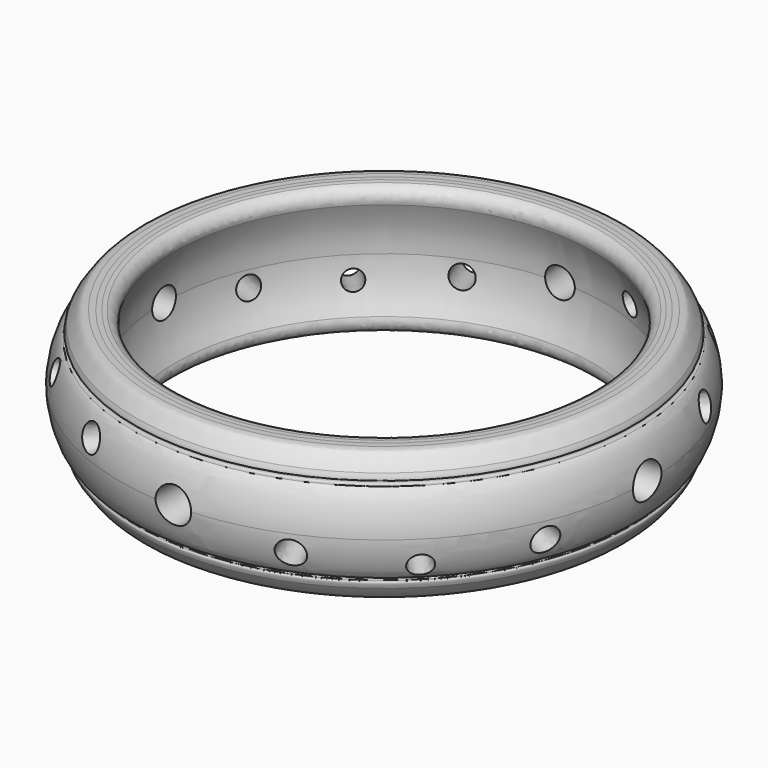
from build123d import *

# Parameters (mm, degrees)
F6_R  = 0.925
F10_R = 0.925
F13_R = 0.925
F16_R = 0.925
F19_R = 0.60125
F22_R = 0.60125
F25_R = 0.60125
F28_R = 0.60125
F31_R = 0.69375
F34_R = 0.69375
F37_R = 0.69375
F40_R = 0.69375
F43_R = 0.69375
F46_R = 0.69375
F49_R = 0.69375
F52_R = 0.69375
F54_R = 0.5


with BuildPart() as f7:
    # F4 (on Front) → F7 (revolve)
    with BuildSketch(Plane.XZ):
        with BuildLine():
            ThreePointArc((-9.390020965, -2.6499475874), (-9.9562513888, -1.378385863), (-10.15, 0))
            ThreePointArc((-10.15, 0), (-9.9562513888, 1.378385863), (-9.390020965, 2.6499475874))
            ThreePointArc((-9.390020965, 2.6499475874), (-9.7316386654, 2.90828068), (-10.15, 3))
            Line((-10.15, 3), (-10.3662162162, 3))
            add(Edge.make_bspline(
                [(-10.3662162162, 3), (-10.472837042, 3), (-10.557874601, 3.0016363559), (-10.6280844767, 3.0013946727)],
                knots=[0, 0, 0, 0, 0.0239499668, 0.0239499668, 0.0239499668, 0.0239499668], degree=3))
            add(Edge.make_bspline(
                [(-10.6280844767, 3.0013946727), (-10.8292088392, 3.0007023429), (-10.9921524035, 2.967674786), (-11.3112702381, 2.5223186656), (-11.4201303001, 2.33784677)],
                knots=[0.0239499668, 0.0239499668, 0.0239499668, 0.0239499668, 0.0925574349, 0.1646602009, 0.1646602009, 0.1646602009, 0.1646602009], degree=3))
            add(Edge.make_bspline(
                [(-11.4487175433, 2.0358536935), (-11.4651041435, 2.0416528659), (-11.5183586384, 2.0703938377), (-11.4757818107, 2.2151974428), (-11.4201303001, 2.33784677)],
                knots=[0.7804409146, 0.7804409146, 0.7804409146, 0.7804409146, 0.7968478814, 0.8404747458, 0.8404747458, 0.8404747458, 0.8404747458], degree=3))
            add(Edge.make_bspline(
                [(-11.4487175433, 2.0358536935), (-11.4296368102, 2.0346757603), (-11.4109907542, 2.030813526), (-11.3989781781, 2.0179532851), (-11.3986495684, 2.0175892595)],
                knots=[0.2528731478, 0.2528731478, 0.2528731478, 0.2528731478, 0.2700664215, 0.2705576855, 0.2705576855, 0.2705576855, 0.2705576855], degree=3))
            add(Edge.make_bspline(
                [(-11.5392835748, 1.8536456852), (-11.4756698731, 1.8704441288), (-11.3673874888, 1.8228684436), (-11.3552610391, 1.9857274952), (-11.3935496245, 2.0146372205), (-11.3986495684, 2.0175892595)],
                knots=[0.6749440288, 0.6749440288, 0.6749440288, 0.6749440288, 0.7167284795, 0.7580313054, 0.763759412, 0.763759412, 0.763759412, 0.763759412], degree=3))
            add(Edge.make_bspline(
                [(-11.5392835748, 1.8536456852), (-11.5414366172, 1.85273786), (-11.7649768554, 1.752090256), (-12.139323112, 0.8703692903), (-12.1499999991, 7e-08)],
                knots=[0.3529869285, 0.3529869285, 0.3529869285, 0.3529869285, 0.3545300043, 0.5121145373, 0.5121145373, 0.5121145373, 0.5121145373], degree=3))
            add(Edge.make_bspline(
                [(-11.5392835748, -1.8536456852), (-11.5414366172, -1.85273786), (-11.7649768613, -1.7520902534), (-12.1393231319, -0.8703692435), (-12.15, 0)],
                knots=[0.3529869285, 0.3529869285, 0.3529869285, 0.3529869285, 0.3545300043, 0.5121145416, 0.5121145416, 0.5121145416, 0.5121145416], degree=3))
            add(Edge.make_bspline(
                [(-11.5392835748, -1.8536456852), (-11.4756698731, -1.8704441288), (-11.3673874888, -1.8228684436), (-11.3552610391, -1.9857274952), (-11.3935496245, -2.0146372205), (-11.3986495684, -2.0175892595)],
                knots=[0.6749440288, 0.6749440288, 0.6749440288, 0.6749440288, 0.7167284795, 0.7580313054, 0.763759412, 0.763759412, 0.763759412, 0.763759412], degree=3))
            add(Edge.make_bspline(
                [(-11.4487175433, -2.0358536935), (-11.4296368102, -2.0346757603), (-11.4109907542, -2.030813526), (-11.3989781781, -2.0179532851), (-11.3986495684, -2.0175892595)],
                knots=[0.2528731478, 0.2528731478, 0.2528731478, 0.2528731478, 0.2700664215, 0.2705576855, 0.2705576855, 0.2705576855, 0.2705576855], degree=3))
            add(Edge.make_bspline(
                [(-11.4487175433, -2.0358536935), (-11.4651041435, -2.0416528659), (-11.5183586384, -2.0703938377), (-11.4757818107, -2.2151974428), (-11.4201303001, -2.33784677)],
                knots=[0.7804409146, 0.7804409146, 0.7804409146, 0.7804409146, 0.7968478814, 0.8404747458, 0.8404747458, 0.8404747458, 0.8404747458], degree=3))
            add(Edge.make_bspline(
                [(-10.6280844767, -3.0013946727), (-10.8292088392, -3.0007023429), (-10.9921524035, -2.967674786), (-11.3112702381, -2.5223186656), (-11.4201303001, -2.33784677)],
                knots=[0.0239499668, 0.0239499668, 0.0239499668, 0.0239499668, 0.0925574349, 0.1646602009, 0.1646602009, 0.1646602009, 0.1646602009], degree=3))
            add(Edge.make_bspline(
                [(-10.6280844767, -3.0013946727), (-10.5551781394, -3.0013565395), (-10.4693639322, -3), (-10.3662162162, -3)],
                knots=[0.9782613975, 0.9782613975, 0.9782613975, 0.9782613975, 1, 1, 1, 1], degree=3))
            Line((-10.3662162162, -3), (-10.15, -3))
            ThreePointArc((-10.15, -3), (-9.7316386654, -2.90828068), (-9.390020965, -2.6499475874))
        make_face()
    revolve(axis=Axis((0, 0, -5.526015535), (0, 0, -1)))

    # F6 (on line) → F8 section 0
    with BuildSketch(Plane.YZ.offset(-13.7), mode=Mode.PRIVATE) as f8_s0:
        Circle(F6_R)
    loft([f8_s0.sketch, Vertex(0, 0, 0)], mode=Mode.SUBTRACT)

    # F10 (on line) → F11 section 0
    with BuildSketch(Plane.XZ.offset(-13.7), mode=Mode.PRIVATE) as f11_s0:
        Circle(F10_R)
    loft([f11_s0.sketch, Vertex(0, 0, 0)], mode=Mode.SUBTRACT)

    # F13 (on line) → F14 section 0
    with BuildSketch(Plane.YZ.offset(13.7), mode=Mode.PRIVATE) as f14_s0:
        Circle(F13_R)
    loft([f14_s0.sketch, Vertex(0, 0, 0)], mode=Mode.SUBTRACT)

    # F16 (on line) → F17 section 0
    with BuildSketch(Plane(origin=(0, -13.7, 0), x_dir=(-1, 0, 0), z_dir=(0, 1, 0)), mode=Mode.PRIVATE) as f17_s0:
        Circle(F16_R)
    loft([f17_s0.sketch, Vertex(0, 0, 0)], mode=Mode.SUBTRACT)

    # F19 (on face) → F20 section 0
    with BuildSketch(Plane(origin=(9.6873629023, -9.6873629023, 0), x_dir=(0.7071067812, 0.7071067812, 0), z_dir=(0.7071067812, -0.7071067812, 0)), mode=Mode.PRIVATE) as f20_s0:
        with Locations((0, -1.35)):
            Circle(F19_R)
    loft([f20_s0.sketch, Vertex(0, 0, 0)], mode=Mode.SUBTRACT)

    # F22 (on face) → F23 section 0
    with BuildSketch(Plane(origin=(-9.6873629023, -9.6873629023, 0), x_dir=(-0.7071067812, 0.7071067812, 0), z_dir=(0.7071067812, 0.7071067812, 0)), mode=Mode.PRIVATE) as f23_s0:
        with Locations((0, 1.35)):
            Circle(F22_R)
    loft([f23_s0.sketch, Vertex(0, 0, 0)], mode=Mode.SUBTRACT)

    # F25 (on face) → F26 section 0
    with BuildSketch(Plane(origin=(-9.6873629023, 9.6873629023, 0), x_dir=(0.7071067812, 0.7071067812, 0), z_dir=(0.7071067812, -0.7071067812, 0)), mode=Mode.PRIVATE) as f26_s0:
        with Locations((0, -1.35)):
            Circle(F25_R)
    loft([f26_s0.sketch, Vertex(0, 0, 0)], mode=Mode.SUBTRACT)

    # F28 (on face) → F29 section 0
    with BuildSketch(Plane(origin=(9.6873629023, 9.6873629023, 0), x_dir=(-0.7071067812, 0.7071067812, 0), z_dir=(0.7071067812, 0.7071067812, 0)), mode=Mode.PRIVATE) as f29_s0:
        with Locations((0, 1.35)):
            Circle(F28_R)
    loft([f29_s0.sketch, Vertex(0, 0, 0)], mode=Mode.SUBTRACT)

    # F31 (on line) → F32 section 0
    with BuildSketch(Plane(origin=(5.2427630234, -12.6571495954, 0), x_dir=(-0.9238795325, -0.3826834324, 0), z_dir=(-0.3826834324, 0.9238795325, 0)), mode=Mode.PRIVATE) as f32_s0:
        with Locations((0, -0.95445)):
            Circle(F31_R)
    loft([f32_s0.sketch, Vertex(0, 0, 0)], mode=Mode.SUBTRACT)

    # F34 (on line) → F35 section 0
    with BuildSketch(Plane(origin=(-5.2427630234, -12.6571495954, 0), x_dir=(-0.9238795325, 0.3826834324, 0), z_dir=(0.3826834324, 0.9238795325, 0)), mode=Mode.PRIVATE) as f35_s0:
        with Locations((0, 0.95445)):
            Circle(F34_R)
    loft([f35_s0.sketch, Vertex(0, 0, 0)], mode=Mode.SUBTRACT)

    # F37 (on line) → F38 section 0
    with BuildSketch(Plane(origin=(-12.6571495954, -5.2427630234, 0), x_dir=(-0.3826834324, 0.9238795325, 0), z_dir=(0.9238795325, 0.3826834324, 0)), mode=Mode.PRIVATE) as f38_s0:
        with Locations((0, 0.95445)):
            Circle(F37_R)
    loft([f38_s0.sketch, Vertex(0, 0, 0)], mode=Mode.SUBTRACT)

    # F40 (on line) → F41 section 0
    with BuildSketch(Plane(origin=(-12.6571495954, 5.2427630234, 0), x_dir=(0.3826834324, 0.9238795325, 0), z_dir=(0.9238795325, -0.3826834324, 0)), mode=Mode.PRIVATE) as f41_s0:
        with Locations((0, -0.95445)):
            Circle(F40_R)
    loft([f41_s0.sketch, Vertex(0, 0, 0)], mode=Mode.SUBTRACT)

    # F43 (on line) → F44 section 0
    with BuildSketch(Plane(origin=(-5.2427630234, 12.6571495954, 0), x_dir=(0.9238795325, 0.3826834324, 0), z_dir=(0.3826834324, -0.9238795325, 0)), mode=Mode.PRIVATE) as f44_s0:
        with Locations((0, -0.95445)):
            Circle(F43_R)
    loft([Vertex(0, 0, 0), f44_s0.sketch], mode=Mode.SUBTRACT)

    # F46 (on line) → F47 section 0
    with BuildSketch(Plane(origin=(5.2427630234, 12.6571495954, 0), x_dir=(0.9238795325, -0.3826834324, 0), z_dir=(-0.3826834324, -0.9238795325, 0)), mode=Mode.PRIVATE) as f47_s0:
        with Locations((0, 0.95445)):
            Circle(F46_R)
    loft([f47_s0.sketch, Vertex(0, 0, 0)], mode=Mode.SUBTRACT)

    # F49 (on line) → F50 section 0
    with BuildSketch(Plane(origin=(12.6571495954, 5.2427630234, 0), x_dir=(-0.3826834324, 0.9238795325, 0), z_dir=(0.9238795325, 0.3826834324, 0)), mode=Mode.PRIVATE) as f50_s0:
        with Locations((0, 0.95445)):
            Circle(F49_R)
    loft([f50_s0.sketch, Vertex(0, 0, 0)], mode=Mode.SUBTRACT)

    # F52 (on line) → F53 section 0
    with BuildSketch(Plane(origin=(12.6571495954, -5.2427630234, 0), x_dir=(0.3826834324, 0.9238795325, 0), z_dir=(0.9238795325, -0.3826834324, 0)), mode=Mode.PRIVATE) as f53_s0:
        with Locations((0, -0.95445)):
            Circle(F52_R)
    loft([f53_s0.sketch, Vertex(0, 0, 0)], mode=Mode.SUBTRACT)

    # F54
    f54_edges = [f7.edges().sort_by_distance(p)[0] for p in [
        (9.390021, 0, 2.649948),
        (9.390021, 0, -2.649948),
    ]]
    fillet(f54_edges, radius=F54_R)


solid = f7.part
